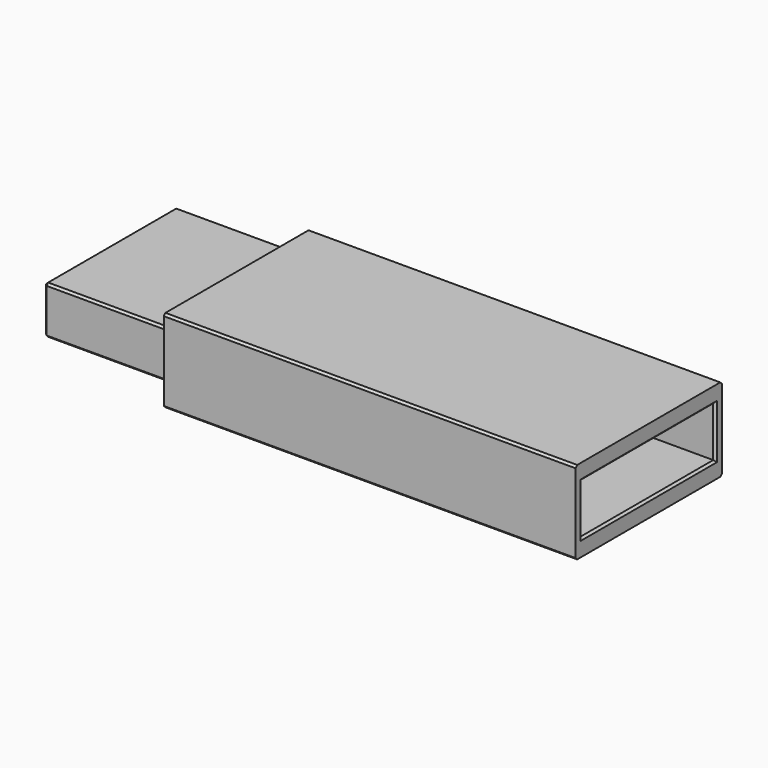
from build123d import *

# Parameters (mm, degrees)
SKETCH086_W     = 44
SKETCH086_H     = 20
PAD047_DEPTH    = 99
SKETCH087_W     = 39.5
SKETCH087_H     = 11.5
PAD048_DEPTH    = 30.5
SKETCH088_W     = 30
SKETCH088_H     = 7
POCKET031_DEPTH = 129.5
SKETCH089_W     = 40
SKETCH089_H     = 12
POCKET032_DEPTH = 31
CHAMFER051_SIZE = 0.5
CHAMFER052_SIZE = 0.5
CHAMFER053_SIZE = 0.5


with BuildPart() as part:
    # Sketch086 → Pad047 (new body)
    with BuildSketch(Plane.YZ):
        Rectangle(SKETCH086_W, SKETCH086_H)
    extrude(amount=PAD047_DEPTH)

    # Sketch087 (on Face5 of Pad047) → Pad048 (join)
    with BuildSketch(Plane(origin=(0, 0, 0), x_dir=(0, 1, 0), z_dir=(-1, 0, 0))):
        Rectangle(SKETCH087_W, SKETCH087_H)
    extrude(amount=PAD048_DEPTH)

    # Sketch088 (on Face5 of Pad048) → Pocket031 (cut)
    with BuildSketch(Plane.YZ.offset(99)):
        Rectangle(SKETCH088_W, SKETCH088_H)
    extrude(amount=-POCKET031_DEPTH, mode=Mode.SUBTRACT)

    # Sketch089 (on Face5 of Pocket031) → Pocket032 (cut)
    with BuildSketch(Plane.YZ.offset(99)):
        Rectangle(SKETCH089_W, SKETCH089_H)
    extrude(amount=-POCKET032_DEPTH, mode=Mode.SUBTRACT)

    # Chamfer051
    chamfer051_edges = [part.edges().sort_by_distance(p)[0] for p in [
        (-30.5, 0, -5.75),
        (-30.5, -19.75, 0),
        (-30.5, 19.75, 0),
        (-30.5, 0, 5.75),
        (-30.5, -15, 0),
        (-30.5, 0, -3.5),
        (-30.5, 15, 0),
        (-30.5, 0, 3.5),
        (-15.25, 19.75, 5.75),
        (-15.25, -19.75, 5.75),
        (-15.25, 19.75, -5.75),
        (-15.25, -19.75, -5.75),
    ]]
    chamfer(chamfer051_edges, length=CHAMFER051_SIZE)

    # Chamfer052
    chamfer052_edges = [part.edges().sort_by_distance(p)[0] for p in [
        (99, 0, 6),
        (99, -20, 0),
        (99, 0, -6),
        (99, 20, 0),
    ]]
    chamfer(chamfer052_edges, length=CHAMFER052_SIZE)

    # Chamfer053
    chamfer053_edges = [part.edges().sort_by_distance(p)[0] for p in [
        (49.5, -22, 10),
        (49.5, -22, -10),
        (49.5, 22, 10),
        (49.5, 22, -10),
    ]]
    chamfer(chamfer053_edges, length=CHAMFER053_SIZE)


with BuildPart() as part_1:
    # Body016 placement: moved
    add(part.part.moved(Location((0, 75, 4))))


solid = part_1.part
